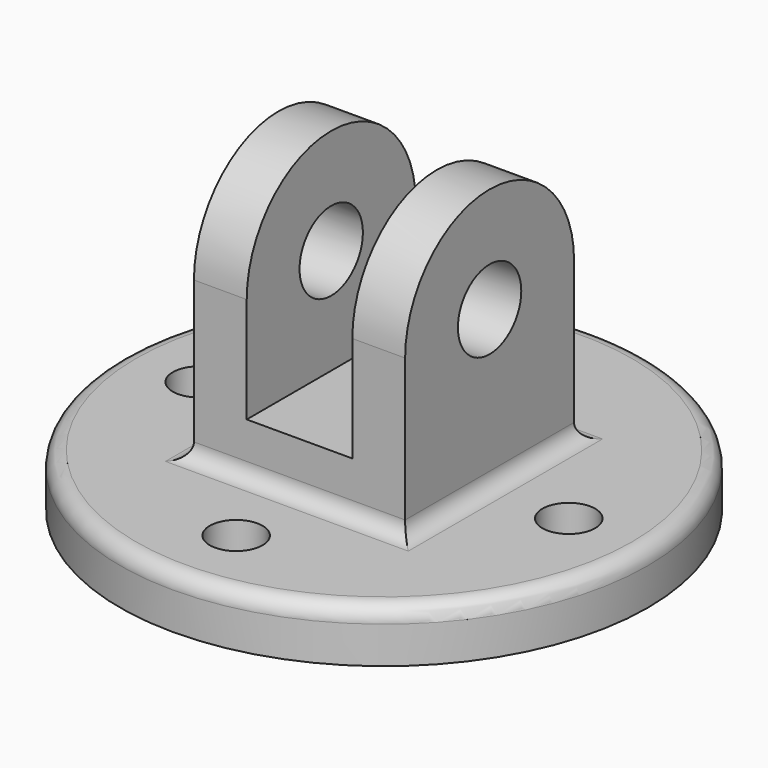
from build123d import *

# Parameters (mm, degrees)
F0_R     = 63.5
F0_R_2   = 6.35
F1_DEPTH = 6.35
F2_W     = 50.8
F2_H     = 50.8
F3_DEPTH = 38.1
F5_DEPTH = 50.8
F6_W     = 25.4
F6_H     = 25.4
F7_DEPTH = 88.901
F8_R     = 9.525
F9_DEPTH = 88.901
F10_R    = 3.81


with BuildPart() as f1:
    # F0 (on Top) → F1 (new body, symmetric)
    with BuildSketch(Plane.XY):
        Circle(F0_R)
        with Locations((0, -44.45)):
            Circle(F0_R_2, mode=Mode.SUBTRACT)
        with Locations((-44.45, 0)):
            Circle(F0_R_2, mode=Mode.SUBTRACT)
        with Locations((44.45, 0)):
            Circle(F0_R_2, mode=Mode.SUBTRACT)
        with Locations((0, 44.45)):
            Circle(F0_R_2, mode=Mode.SUBTRACT)
    extrude(amount=F1_DEPTH, both=True)

    # F2 (on face) → F3 (join)
    with BuildSketch(Plane.XY.offset(6.35)):
        Rectangle(F2_W, F2_H)
    extrude(amount=F3_DEPTH)

    # F4 (on face) → F5 (join, through all)
    with BuildSketch(Plane.YZ.offset(25.4)):
        with BuildLine():
            Line((-25.4, 44.45), (25.4, 44.45))
            ThreePointArc((25.4, 44.45), (0, 69.85), (-25.4, 44.45))
        make_face()
    extrude(amount=-F5_DEPTH)

    # F6 (on face) → F7 (cut, through all)
    with BuildSketch(Plane.XZ.offset(25.4)):
        with Locations((0, 31.75)):
            Rectangle(F6_W, F6_H)
        with Locations((0, 57.15)):
            Rectangle(F6_W, F6_H)
        with Locations((0, 57.15)):
            Rectangle(F6_W, F6_H)
    extrude(amount=-F7_DEPTH, mode=Mode.SUBTRACT)

    # F8 (on face) → F9 (cut, through all)
    with BuildSketch(Plane.YZ.offset(25.4)):
        with Locations((0, 44.45)):
            Circle(F8_R)
    extrude(amount=-F9_DEPTH, mode=Mode.SUBTRACT)

    # F10
    f10_edges = [f1.edges().sort_by_distance(p)[0] for p in [
        (-63.5, 0, 6.35),
        (25.4, 0, 6.35),
        (0, -25.4, 6.35),
        (-25.4, 0, 6.35),
        (0, 25.4, 6.35),
    ]]
    fillet(f10_edges, radius=F10_R)


solid = f1.part
